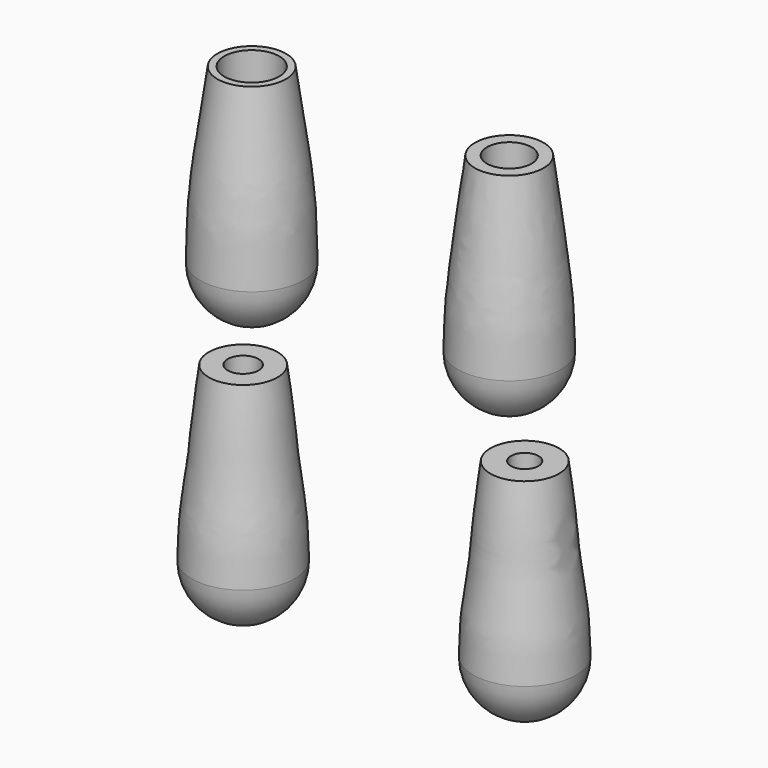
from build123d import *


with BuildPart() as f1:
    # F0 (on Front) → F1 (revolve)
    with BuildSketch(Plane.XZ):
        with BuildLine():
            ThreePointArc((-41.5066033602, 13.6999997944), (-47.1634576097, 16.0431455449), (-49.5066033602, 21.6999997944))
            Line((-49.5066033602, 21.6999997944), (-49.5066033602, 71.6999997944))
            Line((-49.5066033602, 71.6999997944), (-51.5066033602, 71.6999997944))
            add(Edge.make_bspline(
                [(-56.5066033602, 21.6999997944), (-56.5066033602, 32.3037606053), (-55.1199902314, 48.1251404043), (-53.6119920025, 56.3035099421), (-51.5066033602, 71.6999997944)],
                knots=[0, 0, 0, 0, 0.4922665686, 1, 1, 1, 1], degree=3))
            ThreePointArc((-56.5066033602, 21.6999997944), (-52.113205078, 11.0933980766), (-41.5066033602, 6.6999997944))
            Line((-41.5066033602, 6.6999997944), (-41.5066033602, 13.6999997944))
        make_face()
    revolve(axis=Axis((-41.5066033602, 0, 10.1999997944), (0, 0, 1)))


with BuildPart() as f2:
    # F0 (on Front) → F2 (revolve)
    with BuildSketch(Plane.XZ):
        with BuildLine():
            ThreePointArc((33.4954857826, 16.7712480798), (28.8992917049, 18.6750540021), (26.9954857826, 23.2712480798))
            Line((26.9954857826, 23.2712480798), (26.9954857826, 73.2712480798))
            Line((26.9954857826, 73.2712480798), (23.4954857826, 73.2712480798))
            add(Edge.make_bspline(
                [(18.4954857826, 23.2712480798), (18.4954857826, 33.9219484656), (20.5318191834, 49.9100723546), (21.3991331375, 57.9408375424), (23.4954857826, 73.2712480798)],
                knots=[0, 0, 0, 0, 0.4944456807, 1, 1, 1, 1], degree=3))
            ThreePointArc((18.4954857826, 23.2712480798), (22.8888840648, 12.664646362), (33.4954857826, 8.2712480798))
            Line((33.4954857826, 8.2712480798), (33.4954857826, 16.7712480798))
        make_face()
    revolve(axis=Axis((33.4954857826, 0, 12.5212480798), (0, 0, 1)))


with BuildPart() as f3:
    # F0 (on Front) → F3 (revolve)
    with BuildSketch(Plane.XZ):
        with BuildLine():
            ThreePointArc((-43.9946502447, -60.0907344818), (-47.1766307601, -58.7727149972), (-48.4946502447, -55.5907344818))
            Line((-48.4946502447, -55.5907344818), (-48.4946502447, -5.5907344818))
            Line((-48.4946502447, -5.5907344818), (-53.9946502447, -5.5907344818))
            add(Edge.make_bspline(
                [(-58.9946502447, -55.5907344818), (-58.9946502447, -44.877313586), (-56.0923421666, -28.6675294708), (-56.0789290193, -20.8328500498), (-53.9946502447, -5.5907344818)],
                knots=[0, 0, 0, 0, 0.4973574033, 1, 1, 1, 1], degree=3))
            ThreePointArc((-58.9946502447, -55.5907344818), (-54.6012519625, -66.1973361996), (-43.9946502447, -70.5907344818))
            Line((-43.9946502447, -70.5907344818), (-43.9946502447, -60.0907344818))
        make_face()
    revolve(axis=Axis((-43.9946502447, 0, -65.3407344818), (0, 0, 1)))


with BuildPart() as f4:
    # F0 (on Front) → F4 (revolve)
    with BuildSketch(Plane.XZ):
        with BuildLine():
            ThreePointArc((37.9954762757, -57.599998951), (35.1670491509, -56.4284260757), (33.9954762757, -53.599998951))
            Line((33.9954762757, -53.599998951), (33.9954762757, -3.599998951))
            Line((33.9954762757, -3.599998951), (27.9954762757, -3.599998951))
            add(Edge.make_bspline(
                [(22.9954762757, -53.599998951), (22.9954762757, -42.8708834165), (26.1142426454, -26.6057564929), (25.9142187622, -18.8200203484), (27.9954762757, -3.599998951)],
                knots=[0, 0, 0, 0, 0.4980860076, 1, 1, 1, 1], degree=3))
            ThreePointArc((22.9954762757, -53.599998951), (27.3888745579, -64.2066006688), (37.9954762757, -68.599998951))
            Line((37.9954762757, -68.599998951), (37.9954762757, -57.599998951))
        make_face()
    revolve(axis=Axis((37.9954762757, 0, -63.099998951), (0, 0, 1)))


solid = Compound([f1.part, f2.part, f3.part, f4.part])
